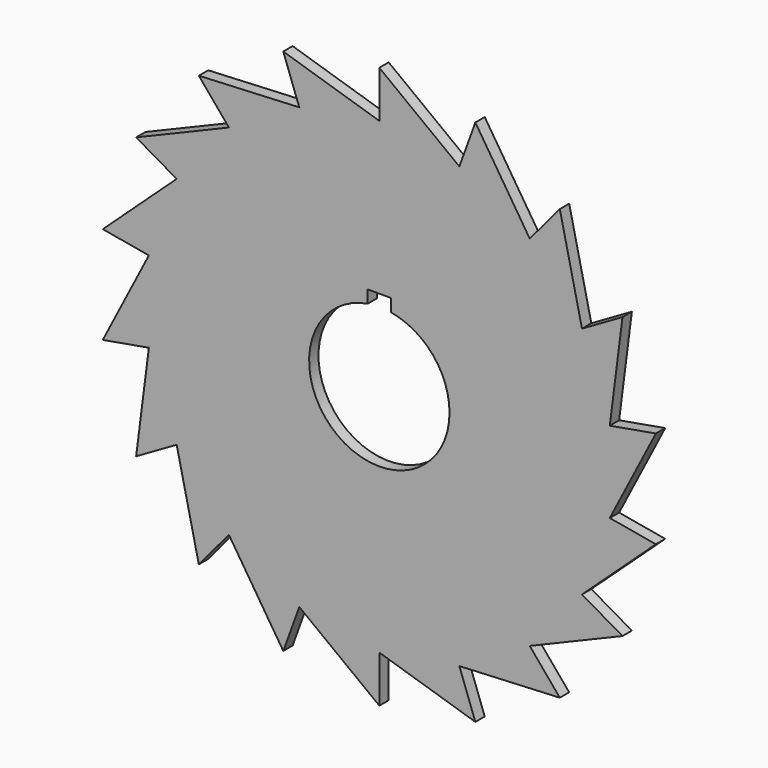
from build123d import *

# Parameters (mm, degrees)
F1_DEPTH = 3.175


with BuildPart() as f1:
    # F0 (on Front) → F1 (new body)
    with BuildSketch(Plane.XZ):
        with BuildLine():
            ThreePointArc((-62.535292, -11.026659), (-63.5, 0), (-62.535292, 11.026659))
            Line((-62.535292, 11.026659), (-75.042351, -13.231991))
            Line((-75.042351, -13.231991), (-62.535292, -11.026659))
        make_face()
        with BuildLine():
            ThreePointArc((-62.535292, 11.026659), (-59.670481, 21.718279), (-54.992613, 31.75))
            Line((-54.992613, 31.75), (-75.042351, 13.231991))
            Line((-75.042351, 13.231991), (-62.535292, 11.026659))
        make_face()
        with BuildLine():
            ThreePointArc((-54.992613, 31.75), (-48.643822, 40.817013), (-40.817013, 48.643822))
            Line((-40.817013, 48.643822), (-65.991136, 38.1))
            Line((-65.991136, 38.1), (-54.992613, 31.75))
        make_face()
        with BuildLine():
            ThreePointArc((-40.817013, 48.643822), (-31.75, 54.992613), (-21.718279, 59.670481))
            Line((-21.718279, 59.670481), (-48.980416, 58.372587))
            Line((-48.980416, 58.372587), (-40.817013, 48.643822))
        make_face()
        with BuildLine():
            Line((-65.991136, -38.1), (-54.992613, -31.75))
            ThreePointArc((-54.992613, -31.75), (-59.670481, -21.718279), (-62.535292, -11.026659))
            Line((-62.535292, -11.026659), (-65.991136, -38.1))
        make_face()
        with BuildLine():
            Line((-48.980416, -58.372587), (-40.817013, -48.643822))
            ThreePointArc((-40.817013, -48.643822), (-48.643822, -40.817013), (-54.992613, -31.75))
            Line((-54.992613, -31.75), (-48.980416, -58.372587))
        make_face()
        with BuildLine():
            Line((-26.061935, -71.604578), (-21.718279, -59.670481))
            ThreePointArc((-21.718279, -59.670481), (-31.75, -54.992613), (-40.817013, -48.643822))
            Line((-40.817013, -48.643822), (-26.061935, -71.604578))
        make_face()
        with BuildLine():
            Line((0, -76.2), (0, -63.5))
            ThreePointArc((0, -63.5), (-11.026659, -62.535292), (-21.718279, -59.670481))
            Line((-21.718279, -59.670481), (0, -76.2))
        make_face()
        with BuildLine():
            Line((26.061935, -71.604578), (21.718279, -59.670481))
            ThreePointArc((21.718279, -59.670481), (11.026659, -62.535292), (0, -63.5))
            Line((0, -63.5), (26.061935, -71.604578))
        make_face()
        with BuildLine():
            Line((48.980416, -58.372587), (40.817013, -48.643822))
            ThreePointArc((40.817013, -48.643822), (31.75, -54.992613), (21.718279, -59.670481))
            Line((21.718279, -59.670481), (48.980416, -58.372587))
        make_face()
        with BuildLine():
            Line((65.991136, -38.1), (54.992613, -31.75))
            ThreePointArc((54.992613, -31.75), (48.643822, -40.817013), (40.817013, -48.643822))
            Line((40.817013, -48.643822), (65.991136, -38.1))
        make_face()
        with BuildLine():
            Line((75.042351, -13.231991), (62.535292, -11.026659))
            ThreePointArc((62.535292, -11.026659), (59.670481, -21.718279), (54.992613, -31.75))
            Line((54.992613, -31.75), (75.042351, -13.231991))
        make_face()
        with BuildLine():
            ThreePointArc((62.535292, 11.026659), (63.258363, 5.53439), (63.5, 0))
            ThreePointArc((63.5, 0), (63.258363, -5.53439), (62.535292, -11.026659))
            Line((62.535292, -11.026659), (75.042351, 13.231991))
            Line((75.042351, 13.231991), (62.535292, 11.026659))
        make_face()
        with BuildLine():
            ThreePointArc((54.992613, 31.75), (59.670481, 21.718279), (62.535292, 11.026659))
            Line((62.535292, 11.026659), (65.991136, 38.1))
            Line((65.991136, 38.1), (54.992613, 31.75))
        make_face()
        with BuildLine():
            ThreePointArc((40.817013, 48.643822), (48.643822, 40.817013), (54.992613, 31.75))
            Line((54.992613, 31.75), (48.980416, 58.372587))
            Line((48.980416, 58.372587), (40.817013, 48.643822))
        make_face()
        with BuildLine():
            ThreePointArc((21.718279, 59.670481), (31.75, 54.992613), (40.817013, 48.643822))
            Line((40.817013, 48.643822), (26.061935, 71.604578))
            Line((26.061935, 71.604578), (21.718279, 59.670481))
        make_face()
        with BuildLine():
            ThreePointArc((0, 63.5), (11.026659, 62.535292), (21.718279, 59.670481))
            Line((21.718279, 59.670481), (0, 76.2))
            Line((0, 76.2), (0, 63.5))
        make_face()
        with BuildLine():
            ThreePointArc((-21.718279, 59.670481), (-11.026659, 62.535292), (0, 63.5))
            Line((0, 63.5), (-26.061935, 71.604578))
            Line((-26.061935, 71.604578), (-21.718279, 59.670481))
        make_face()
        with BuildLine():
            ThreePointArc((62.535292, -11.026659), (63.258363, -5.53439), (63.5, 0))
            ThreePointArc((63.5, 0), (63.258363, 5.53439), (62.535292, 11.026659))
            ThreePointArc((62.535292, 11.026659), (59.670481, 21.718279), (54.992613, 31.75))
            ThreePointArc((54.992613, 31.75), (48.643822, 40.817013), (40.817013, 48.643822))
            ThreePointArc((40.817013, 48.643822), (31.75, 54.992613), (21.718279, 59.670481))
            ThreePointArc((21.718279, 59.670481), (11.026659, 62.535292), (0, 63.5))
            ThreePointArc((0, 63.5), (-11.026659, 62.535292), (-21.718279, 59.670481))
            ThreePointArc((-21.718279, 59.670481), (-31.75, 54.992613), (-40.817013, 48.643822))
            ThreePointArc((-40.817013, 48.643822), (-48.643822, 40.817013), (-54.992613, 31.75))
            ThreePointArc((-54.992613, 31.75), (-59.670481, 21.718279), (-62.535292, 11.026659))
            ThreePointArc((-62.535292, 11.026659), (-63.5, 0), (-62.535292, -11.026659))
            ThreePointArc((-62.535292, -11.026659), (-59.670481, -21.718279), (-54.992613, -31.75))
            ThreePointArc((-54.992613, -31.75), (-48.643822, -40.817013), (-40.817013, -48.643822))
            ThreePointArc((-40.817013, -48.643822), (-31.75, -54.992613), (-21.718279, -59.670481))
            ThreePointArc((-21.718279, -59.670481), (-11.026659, -62.535292), (0, -63.5))
            ThreePointArc((0, -63.5), (11.026659, -62.535292), (21.718279, -59.670481))
            ThreePointArc((21.718279, -59.670481), (31.75, -54.992613), (40.817013, -48.643822))
            ThreePointArc((40.817013, -48.643822), (48.643822, -40.817013), (54.992613, -31.75))
            ThreePointArc((54.992613, -31.75), (59.670481, -21.718279), (62.535292, -11.026659))
        make_face()
        with BuildLine():
            ThreePointArc((3.175, 18.783553), (14.549678, 12.296722), (19.05, 0))
            ThreePointArc((19.05, 0), (-12.296722, -14.549678), (-3.175, 18.783553))
            Line((-3.175, 18.783553), (-3.175, 22.225))
            Line((-3.175, 22.225), (0, 22.225))
            Line((0, 22.225), (3.175, 22.225))
            Line((3.175, 22.225), (3.175, 18.783553))
        make_face(mode=Mode.SUBTRACT)
    extrude(amount=F1_DEPTH)


solid = f1.part
